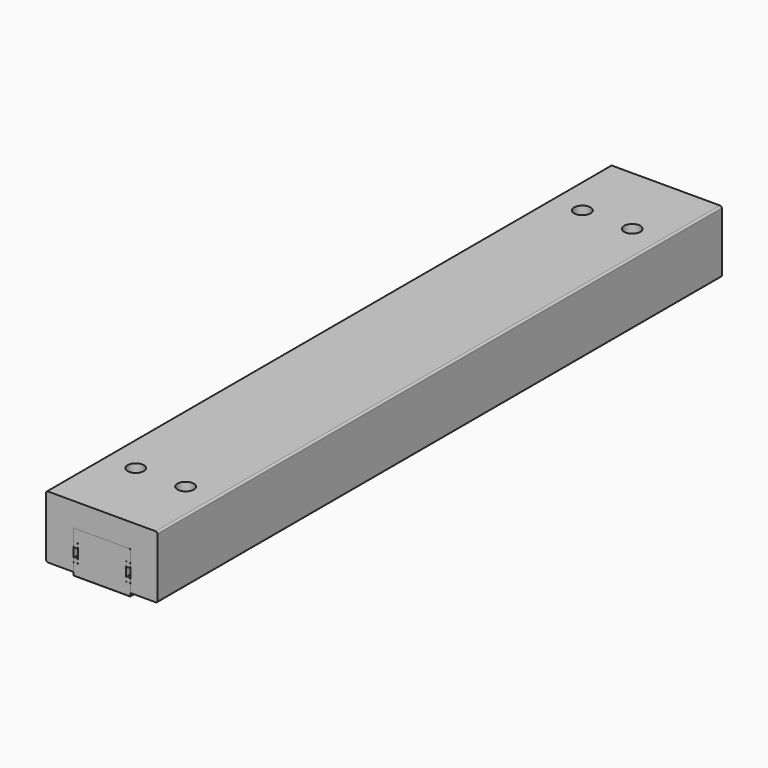
from build123d import *

# Parameters (mm, degrees)
F1_DEPTH  = 77.72
F2_R      = 0.1
F3_R      = 1.8
F4_DEPTH  = 2.7
F5_R      = 1.25
F6_DEPTH  = 1.97
F8_DEPTH  = 77.72
F9_R      = 0.2
F10_R     = 0.9
F11_DEPTH = 2.62


with BuildPart() as f1:
    # F0 (on Front) → F1 (new body)
    with BuildSketch(Plane.XZ):
        with BuildLine():
            Line((-3.14, 1.335), (-3.14, 0))
            Line((-3.14, 0), (3.14, 0))
            Line((3.14, 0), (3.14, 1.335))
            Line((3.14, 1.335), (3.055831, 1.335))
            ThreePointArc((3.055831, 1.335), (3.102132, 1.797132), (2.64, 1.750831))
            Line((2.64, 1.750831), (2.64, 2.919169))
            ThreePointArc((2.64, 2.919169), (3.102132, 2.872868), (3.055831, 3.335))
            Line((3.055831, 3.335), (3.14, 3.335))
            Line((3.14, 3.335), (3.14, 4.67))
            Line((3.14, 4.67), (-3.14, 4.67))
            Line((-3.14, 4.67), (-3.14, 3.335))
            Line((-3.14, 3.335), (-3.055831, 3.335))
            ThreePointArc((-3.055831, 3.335), (-3.102132, 2.872868), (-2.64, 2.919169))
            Line((-2.64, 2.919169), (-2.64, 1.750831))
            ThreePointArc((-2.64, 1.750831), (-3.102132, 1.797132), (-3.055831, 1.335))
            Line((-3.055831, 1.335), (-3.14, 1.335))
        make_face()
        with BuildLine():
            Line((-2.64, 1.419169), (-2.64, 1.335))
            Line((-2.64, 1.335), (-2.724169, 1.335))
            ThreePointArc((-2.724169, 1.335), (-2.677868, 1.372868), (-2.64, 1.419169))
        make_face(mode=Mode.SUBTRACT)
        with BuildLine():
            Line((2.64, 1.335), (2.64, 1.419169))
            ThreePointArc((2.64, 1.419169), (2.677868, 1.372868), (2.724169, 1.335))
            Line((2.724169, 1.335), (2.64, 1.335))
        make_face(mode=Mode.SUBTRACT)
        with BuildLine():
            Line((-2.724169, 3.335), (-2.64, 3.335))
            Line((-2.64, 3.335), (-2.64, 3.250831))
            ThreePointArc((-2.64, 3.250831), (-2.677868, 3.297132), (-2.724169, 3.335))
        make_face(mode=Mode.SUBTRACT)
        with BuildLine():
            ThreePointArc((2.724169, 3.335), (2.677868, 3.297132), (2.64, 3.250831))
            Line((2.64, 3.250831), (2.64, 3.335))
            Line((2.64, 3.335), (2.724169, 3.335))
        make_face(mode=Mode.SUBTRACT)
    extrude(amount=F1_DEPTH)

    # F2
    f2_edges = [f1.edges().sort_by_distance(p)[0] for p in [
        (-3.14, -38.86, 4.67),
        (-3.14, -38.86, 0),
        (3.14, -38.86, 0),
        (0, 0, 0),
        (0, -77.72, 0),
        (3.14, -38.86, 4.67),
    ]]
    fillet(f2_edges, radius=F2_R)

    # F3 (on face) → F4 (cut)
    with BuildSketch(Plane.XY.offset(4.67)):
        with Locations((0, -65.11)):
            Circle(F3_R)
        with Locations((0, -12.61)):
            Circle(F3_R)
    extrude(amount=-F4_DEPTH, mode=Mode.SUBTRACT)

    # F5 (on face) → F6 (cut, through all)
    with BuildSketch(Plane.XY.offset(1.97)):
        with Locations((0, -65.11)):
            Circle(F5_R)
        with Locations((0, -12.61)):
            Circle(F5_R)
    extrude(amount=-F6_DEPTH, mode=Mode.SUBTRACT)


with BuildPart() as f8:
    # F7 (on face) → F8 (new body)
    with BuildSketch(Plane(origin=(0, 0, 0), x_dir=(-1, 0, 0), z_dir=(0, 1, 0))):
        Polygon((3.14, 4.67), (3.14, 0.4), (6.14, 0.4), (6.14, 7.29), (-6.14, 7.29), (-6.14, 0.4), (-3.14, 0.4), (-3.14, 4.67), align=None)
    extrude(amount=-F8_DEPTH)

    # F9
    f9_edges = [f8.edges().sort_by_distance(p)[0] for p in [
        (6.14, -38.86, 7.29),
        (-6.14, -38.86, 7.29),
        (-6.14, -38.86, 0.4),
        (6.14, -38.86, 0.4),
    ]]
    fillet(f9_edges, radius=F9_R)

    # F10 (on face) → F11 (cut, through all)
    with BuildSketch(Plane.XY.offset(7.29)):
        with Locations((-2.75, -8.11)):
            Circle(F10_R)
        with Locations((2.75, -8.11)):
            Circle(F10_R)
        with Locations((-2.75, -69.61)):
            Circle(F10_R)
        with Locations((2.75, -69.61)):
            Circle(F10_R)
    extrude(amount=-F11_DEPTH, mode=Mode.SUBTRACT)


solid = Compound([f1.part, f8.part])
